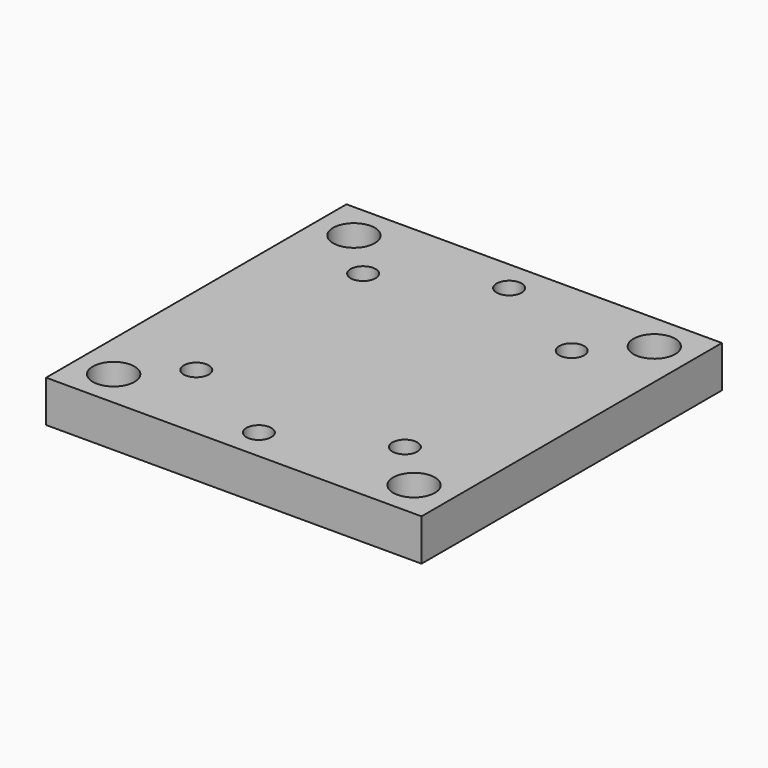
from build123d import *

# Parameters (mm, degrees)
F0_W     = 45
F0_H     = 45
F0_R     = 1.75
F0_R_2   = 1.5
F1_DEPTH = 5
F2_R     = 2.5
F3_DEPTH = 3.5


with BuildPart() as f1:
    # F0 (on Top) → F1 (new body)
    with BuildSketch(Plane.XY):
        Rectangle(F0_W, F0_H)
        with Locations((-18, -18)):
            Circle(F0_R, mode=Mode.SUBTRACT)
        with Locations((-12.5, -12.5)):
            Circle(F0_R_2, mode=Mode.SUBTRACT)
        with Locations((0, -18.75)):
            Circle(F0_R_2, mode=Mode.SUBTRACT)
        with Locations((18, -18)):
            Circle(F0_R, mode=Mode.SUBTRACT)
        with Locations((12.5, -12.5)):
            Circle(F0_R_2, mode=Mode.SUBTRACT)
        with Locations((-12.5, 12.5)):
            Circle(F0_R_2, mode=Mode.SUBTRACT)
        with Locations((-18, 18)):
            Circle(F0_R, mode=Mode.SUBTRACT)
        with Locations((0, 18.75)):
            Circle(F0_R_2, mode=Mode.SUBTRACT)
        with Locations((12.5, 12.5)):
            Circle(F0_R_2, mode=Mode.SUBTRACT)
        with Locations((18, 18)):
            Circle(F0_R, mode=Mode.SUBTRACT)
    extrude(amount=F1_DEPTH)

    # F2 (on face) → F3 (cut)
    with BuildSketch(Plane.XY.offset(5)):
        with Locations((-18, 18)):
            Circle(F2_R)
        with Locations((-18, -18)):
            Circle(F2_R)
        with Locations((18, 18)):
            Circle(F2_R)
        with Locations((18, -18)):
            Circle(F2_R)
    extrude(amount=-F3_DEPTH, mode=Mode.SUBTRACT)


solid = f1.part
